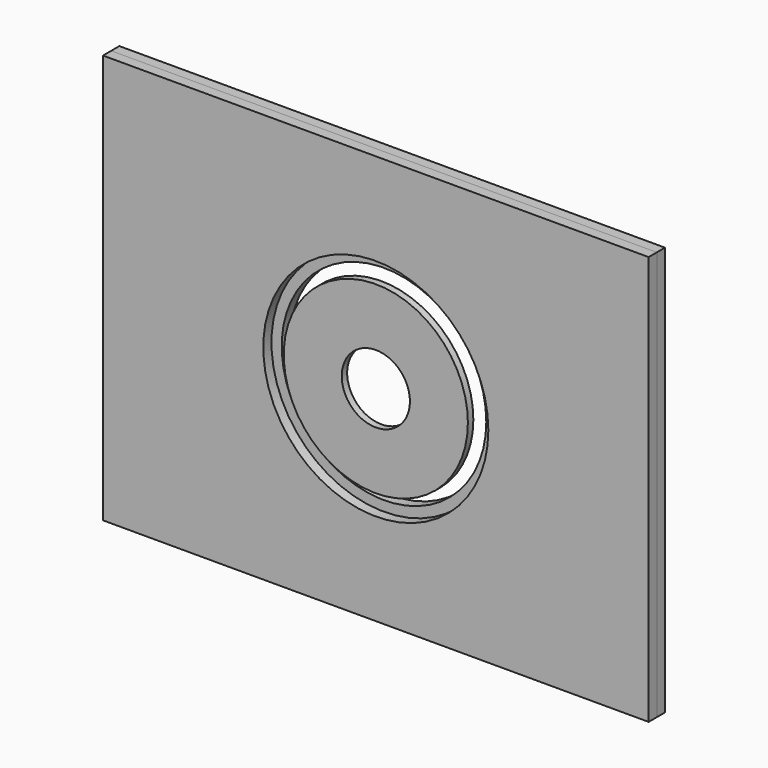
from build123d import *

# Parameters (mm, degrees)
F0_W     = 160
F0_H     = 120
F0_R     = 30
F1_DEPTH = 3
F2_W     = 160
F2_H     = 120
F2_R     = 33
F3_DEPTH = 3
F4_R     = 27
F4_R_2   = 20
F5_DEPTH = 2
F6_R     = 27
F6_R_2   = 15
F7_DEPTH = 2
F8_R     = 27
F8_R_2   = 10
F9_DEPTH = 2


with BuildPart() as f1:
    # F0 (on Front) → F1 (new body)
    with BuildSketch(Plane.XZ):
        with Locations((27.621666, 21.948145)):
            Rectangle(F0_W, F0_H)
        with Locations((27.621666, 21.948145)):
            Circle(F0_R, mode=Mode.SUBTRACT)
    extrude(amount=F1_DEPTH)


with BuildPart() as f3:
    # F2 (on face) → F3 (new body)
    with BuildSketch(Plane.XZ.offset(3)):
        with Locations((27.621666, 21.948145)):
            Rectangle(F2_W, F2_H)
        with Locations((27.621666, 21.948145)):
            Circle(F2_R, mode=Mode.SUBTRACT)
    extrude(amount=F3_DEPTH)


with BuildPart() as f5:
    # F4 (on face) → F5 (new body)
    with BuildSketch(Plane.XZ.offset(6)):
        with Locations((27.621666, 21.948145)):
            Circle(F4_R)
        with Locations((27.621666, 21.948145)):
            Circle(F4_R_2, mode=Mode.SUBTRACT)
    extrude(amount=-F5_DEPTH)


with BuildPart() as f7:
    # F6 (on face) → F7 (new body)
    with BuildSketch(Plane.XZ.offset(6)):
        with Locations((27.621666, 21.948145)):
            Circle(F6_R)
        with Locations((27.621666, 21.948145)):
            Circle(F6_R_2, mode=Mode.SUBTRACT)
    extrude(amount=-F7_DEPTH)


with BuildPart() as f9:
    # F8 (on face) → F9 (new body)
    with BuildSketch(Plane.XZ.offset(6)):
        with Locations((27.621666, 21.948145)):
            Circle(F8_R)
        with Locations((27.621666, 21.948145)):
            Circle(F8_R_2, mode=Mode.SUBTRACT)
    extrude(amount=-F9_DEPTH)


solid = Compound([f1.part, f3.part, f5.part, f7.part, f9.part])
